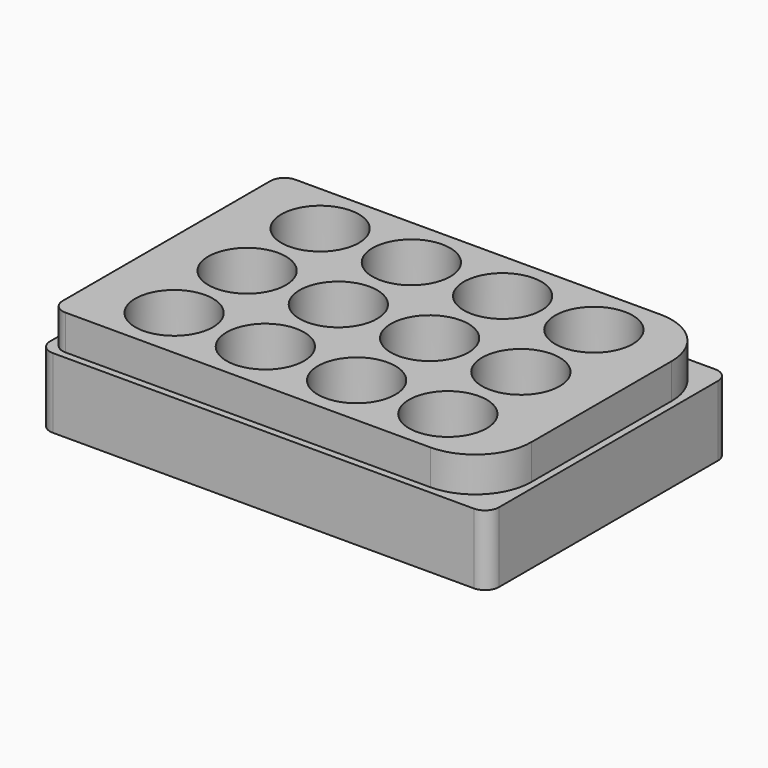
from build123d import *

# Parameters (mm, degrees)
F1_DEPTH = 20
F2_DEPTH = 20
F3_DEPTH = 18
F0_R     = 12.555
F4_DEPTH = 30
F5_DEPTH = 18
F6_DEPTH = 28
F0_R_2   = 11.055
F7_DEPTH = 30
F8_DEPTH = 2.5
F9_DEPTH = 1


with BuildPart() as f1:
    # F0 (on Top) → F1 (new body)
    with BuildSketch(Plane.XY):
        with BuildLine():
            ThreePointArc((64, 39), (62.8284271247, 41.8284271247), (60, 43))
            Line((60, 43), (-60, 43))
            ThreePointArc((-60, 43), (-62.8284271247, 41.8284271247), (-64, 39))
            Line((-64, 39), (-64, -39))
            ThreePointArc((-64, -39), (-62.8284271247, -41.8284271247), (-60, -43))
            Line((-60, -43), (60, -43))
            ThreePointArc((60, -43), (62.8284271247, -41.8284271247), (64, -39))
            Line((64, -39), (64, 39))
        make_face()
        with BuildLine():
            Line((-58, 41), (46, 41))
            Line((46, 41), (58, 41))
            ThreePointArc((58, 41), (60.8284271247, 39.8284271247), (62, 37))
            Line((62, 37), (62, 25))
            Line((62, 25), (62, -25))
            Line((62, -25), (62, -37))
            ThreePointArc((62, -37), (60.8284271247, -39.8284271247), (58, -41))
            Line((58, -41), (46, -41))
            Line((46, -41), (-58, -41))
            ThreePointArc((-58, -41), (-60.8284271247, -39.8284271247), (-62, -37))
            Line((-62, -37), (-62, 37))
            ThreePointArc((-62, 37), (-60.8284271247, 39.8284271247), (-58, 41))
        make_face(mode=Mode.SUBTRACT)
    extrude(amount=F1_DEPTH)

    # F0 (on Top) → F2 (join)
    with BuildSketch(Plane.XY):
        with BuildLine():
            Line((58, 41), (46, 41))
            ThreePointArc((46, 41), (57.313708499, 36.313708499), (62, 25))
            Line((62, 25), (62, 37))
            ThreePointArc((62, 37), (60.8284271247, 39.8284271247), (58, 41))
        make_face()
        with BuildLine():
            Line((62, -37), (62, -25))
            ThreePointArc((62, -25), (57.313708499, -36.313708499), (46, -41))
            Line((46, -41), (58, -41))
            ThreePointArc((58, -41), (60.8284271247, -39.8284271247), (62, -37))
        make_face()
    extrude(amount=F2_DEPTH)

    # F0 (on Top) → F3 (cut)
    with BuildSketch(Plane.XY):
        with BuildLine():
            Line((58, 41), (46, 41))
            ThreePointArc((46, 41), (57.313708499, 36.313708499), (62, 25))
            Line((62, 25), (62, 37))
            ThreePointArc((62, 37), (60.8284271247, 39.8284271247), (58, 41))
        make_face()
        with BuildLine():
            Line((62, -37), (62, -25))
            ThreePointArc((62, -25), (57.313708499, -36.313708499), (46, -41))
            Line((46, -41), (58, -41))
            ThreePointArc((58, -41), (60.8284271247, -39.8284271247), (62, -37))
        make_face()
    extrude(amount=F3_DEPTH, mode=Mode.SUBTRACT)

    # F0 (on Top) → F4 (join)
    with BuildSketch(Plane.XY):
        with BuildLine():
            ThreePointArc((62, 25), (57.313708499, 36.313708499), (46, 41))
            Line((46, 41), (-58, 41))
            ThreePointArc((-58, 41), (-60.8284271247, 39.8284271247), (-62, 37))
            Line((-62, 37), (-62, -37))
            ThreePointArc((-62, -37), (-60.8284271247, -39.8284271247), (-58, -41))
            Line((-58, -41), (46, -41))
            ThreePointArc((46, -41), (57.313708499, -36.313708499), (62, -25))
            Line((62, -25), (62, 25))
        make_face()
        with BuildLine():
            Line((44, -39), (-56, -39))
            ThreePointArc((-56, -39), (-58.8284271247, -37.8284271247), (-60, -35))
            Line((-60, -35), (-60, 35))
            ThreePointArc((-60, 35), (-58.8284271247, 37.8284271247), (-56, 39))
            Line((-56, 39), (44, 39))
            ThreePointArc((44, 39), (55.313708499, 34.313708499), (60, 23))
            Line((60, 23), (60, -23))
            ThreePointArc((60, -23), (55.313708499, -34.313708499), (44, -39))
        make_face(mode=Mode.SUBTRACT)
        with BuildLine():
            ThreePointArc((-60, -35), (-58.8284271247, -37.8284271247), (-56, -39))
            Line((-56, -39), (44, -39))
            ThreePointArc((44, -39), (55.313708499, -34.313708499), (60, -23))
            Line((60, -23), (60, 23))
            ThreePointArc((60, 23), (55.313708499, 34.313708499), (44, 39))
            Line((44, 39), (-56, 39))
            ThreePointArc((-56, 39), (-58.8284271247, 37.8284271247), (-60, 35))
            Line((-60, 35), (-60, -35))
        make_face()
        with BuildLine():
            Line((-25.56, -26.01), (-26.46, -26.01))
            ThreePointArc((-26.46, -26.01), (-47.8927256378, -34.8877256378), (-39.015, -13.455))
            Line((-39.015, -13.455), (-39.015, -12.555))
            ThreePointArc((-39.015, -12.555), (-51.57, 0), (-39.015, 12.555))
            Line((-39.015, 12.555), (-39.015, 13.455))
            ThreePointArc((-39.015, 13.455), (-47.8927256378, 34.8877256378), (-26.46, 26.01))
            Line((-26.46, 26.01), (-25.56, 26.01))
            ThreePointArc((-25.56, 26.01), (-13.005, 38.565), (-0.45, 26.01))
            Line((-0.45, 26.01), (0.45, 26.01))
            ThreePointArc((0.45, 26.01), (13.005, 38.565), (25.56, 26.01))
            Line((25.56, 26.01), (26.46, 26.01))
            ThreePointArc((26.46, 26.01), (39.015, 38.565), (51.57, 26.01))
            ThreePointArc((51.57, 26.01), (47.8927256378, 17.1322743622), (39.015, 13.455))
            Line((39.015, 13.455), (39.015, 12.555))
            ThreePointArc((39.015, 12.555), (47.8927256378, 8.8777256378), (51.57, 0))
            ThreePointArc((51.57, 0), (47.8927256378, -8.8777256378), (39.015, -12.555))
            Line((39.015, -12.555), (39.015, -13.455))
            ThreePointArc((39.015, -13.455), (47.8927256378, -17.1322743622), (51.57, -26.01))
            ThreePointArc((51.57, -26.01), (39.015, -38.565), (26.46, -26.01))
            Line((26.46, -26.01), (25.56, -26.01))
            ThreePointArc((25.56, -26.01), (13.005, -38.565), (0.45, -26.01))
            Line((0.45, -26.01), (-0.4536625078, -25.7067638609))
            ThreePointArc((-0.4536625078, -25.7067638609), (-0.4509156603, -25.8583708719), (-0.45, -26.01))
            ThreePointArc((-0.45, -26.01), (-13.005, -38.565), (-25.56, -26.01))
        make_face(mode=Mode.SUBTRACT)
        with BuildLine():
            ThreePointArc((-39.015, -13.455), (-30.1372743622, -17.1322743622), (-26.46, -26.01))
            Line((-26.46, -26.01), (-25.56, -26.01))
            ThreePointArc((-25.56, -26.01), (-13.1566291281, -13.4559156603), (-0.4536625078, -25.7067638609))
            Line((-0.4536625078, -25.7067638609), (0.45, -26.01))
            ThreePointArc((0.45, -26.01), (13.005, -13.455), (25.56, -26.01))
            Line((25.56, -26.01), (26.46, -26.01))
            ThreePointArc((26.46, -26.01), (30.1372743622, -17.1322743622), (39.015, -13.455))
            Line((39.015, -13.455), (39.015, -12.555))
            ThreePointArc((39.015, -12.555), (26.46, 0), (39.015, 12.555))
            Line((39.015, 12.555), (39.015, 13.455))
            ThreePointArc((39.015, 13.455), (30.1372743622, 17.1322743622), (26.46, 26.01))
            Line((26.46, 26.01), (25.56, 26.01))
            ThreePointArc((25.56, 26.01), (13.005, 13.455), (0.45, 26.01))
            Line((0.45, 26.01), (-0.45, 26.01))
            ThreePointArc((-0.45, 26.01), (-13.005, 13.455), (-25.56, 26.01))
            Line((-25.56, 26.01), (-26.46, 26.01))
            ThreePointArc((-26.46, 26.01), (-30.1372743622, 17.1322743622), (-39.015, 13.455))
            Line((-39.015, 13.455), (-39.015, 12.555))
            ThreePointArc((-39.015, 12.555), (-30.1372743622, 8.8777256378), (-26.46, 0))
            ThreePointArc((-26.46, 0), (-30.1372743622, -8.8777256378), (-39.015, -12.555))
            Line((-39.015, -12.555), (-39.015, -13.455))
        make_face()
        with Locations((-13.005, 0)):
            Circle(F0_R, mode=Mode.SUBTRACT)
        with Locations((13.005, 0)):
            Circle(F0_R, mode=Mode.SUBTRACT)
    extrude(amount=F4_DEPTH)

    # F0 (on Top) → F5 (cut)
    with BuildSketch(Plane.XY):
        with BuildLine():
            ThreePointArc((62, 25), (57.313708499, 36.313708499), (46, 41))
            Line((46, 41), (-58, 41))
            ThreePointArc((-58, 41), (-60.8284271247, 39.8284271247), (-62, 37))
            Line((-62, 37), (-62, -37))
            ThreePointArc((-62, -37), (-60.8284271247, -39.8284271247), (-58, -41))
            Line((-58, -41), (46, -41))
            ThreePointArc((46, -41), (57.313708499, -36.313708499), (62, -25))
            Line((62, -25), (62, 25))
        make_face()
        with BuildLine():
            Line((44, -39), (-56, -39))
            ThreePointArc((-56, -39), (-58.8284271247, -37.8284271247), (-60, -35))
            Line((-60, -35), (-60, 35))
            ThreePointArc((-60, 35), (-58.8284271247, 37.8284271247), (-56, 39))
            Line((-56, 39), (44, 39))
            ThreePointArc((44, 39), (55.313708499, 34.313708499), (60, 23))
            Line((60, 23), (60, -23))
            ThreePointArc((60, -23), (55.313708499, -34.313708499), (44, -39))
        make_face(mode=Mode.SUBTRACT)
    extrude(amount=F5_DEPTH, mode=Mode.SUBTRACT)

    # F0 (on Top) → F6 (cut)
    with BuildSketch(Plane.XY):
        with BuildLine():
            ThreePointArc((-60, -35), (-58.8284271247, -37.8284271247), (-56, -39))
            Line((-56, -39), (44, -39))
            ThreePointArc((44, -39), (55.313708499, -34.313708499), (60, -23))
            Line((60, -23), (60, 23))
            ThreePointArc((60, 23), (55.313708499, 34.313708499), (44, 39))
            Line((44, 39), (-56, 39))
            ThreePointArc((-56, 39), (-58.8284271247, 37.8284271247), (-60, 35))
            Line((-60, 35), (-60, -35))
        make_face()
        with BuildLine():
            Line((-25.56, -26.01), (-26.46, -26.01))
            ThreePointArc((-26.46, -26.01), (-47.8927256378, -34.8877256378), (-39.015, -13.455))
            Line((-39.015, -13.455), (-39.015, -12.555))
            ThreePointArc((-39.015, -12.555), (-51.57, 0), (-39.015, 12.555))
            Line((-39.015, 12.555), (-39.015, 13.455))
            ThreePointArc((-39.015, 13.455), (-47.8927256378, 34.8877256378), (-26.46, 26.01))
            Line((-26.46, 26.01), (-25.56, 26.01))
            ThreePointArc((-25.56, 26.01), (-13.005, 38.565), (-0.45, 26.01))
            Line((-0.45, 26.01), (0.45, 26.01))
            ThreePointArc((0.45, 26.01), (13.005, 38.565), (25.56, 26.01))
            Line((25.56, 26.01), (26.46, 26.01))
            ThreePointArc((26.46, 26.01), (39.015, 38.565), (51.57, 26.01))
            ThreePointArc((51.57, 26.01), (47.8927256378, 17.1322743622), (39.015, 13.455))
            Line((39.015, 13.455), (39.015, 12.555))
            ThreePointArc((39.015, 12.555), (47.8927256378, 8.8777256378), (51.57, 0))
            ThreePointArc((51.57, 0), (47.8927256378, -8.8777256378), (39.015, -12.555))
            Line((39.015, -12.555), (39.015, -13.455))
            ThreePointArc((39.015, -13.455), (47.8927256378, -17.1322743622), (51.57, -26.01))
            ThreePointArc((51.57, -26.01), (39.015, -38.565), (26.46, -26.01))
            Line((26.46, -26.01), (25.56, -26.01))
            ThreePointArc((25.56, -26.01), (13.005, -38.565), (0.45, -26.01))
            Line((0.45, -26.01), (-0.4536625078, -25.7067638609))
            ThreePointArc((-0.4536625078, -25.7067638609), (-0.4509156603, -25.8583708719), (-0.45, -26.01))
            ThreePointArc((-0.45, -26.01), (-13.005, -38.565), (-25.56, -26.01))
        make_face(mode=Mode.SUBTRACT)
        with BuildLine():
            ThreePointArc((-39.015, -13.455), (-30.1372743622, -17.1322743622), (-26.46, -26.01))
            Line((-26.46, -26.01), (-25.56, -26.01))
            ThreePointArc((-25.56, -26.01), (-13.1566291281, -13.4559156603), (-0.4536625078, -25.7067638609))
            Line((-0.4536625078, -25.7067638609), (0.45, -26.01))
            ThreePointArc((0.45, -26.01), (13.005, -13.455), (25.56, -26.01))
            Line((25.56, -26.01), (26.46, -26.01))
            ThreePointArc((26.46, -26.01), (30.1372743622, -17.1322743622), (39.015, -13.455))
            Line((39.015, -13.455), (39.015, -12.555))
            ThreePointArc((39.015, -12.555), (26.46, 0), (39.015, 12.555))
            Line((39.015, 12.555), (39.015, 13.455))
            ThreePointArc((39.015, 13.455), (30.1372743622, 17.1322743622), (26.46, 26.01))
            Line((26.46, 26.01), (25.56, 26.01))
            ThreePointArc((25.56, 26.01), (13.005, 13.455), (0.45, 26.01))
            Line((0.45, 26.01), (-0.45, 26.01))
            ThreePointArc((-0.45, 26.01), (-13.005, 13.455), (-25.56, 26.01))
            Line((-25.56, 26.01), (-26.46, 26.01))
            ThreePointArc((-26.46, 26.01), (-30.1372743622, 17.1322743622), (-39.015, 13.455))
            Line((-39.015, 13.455), (-39.015, 12.555))
            ThreePointArc((-39.015, 12.555), (-30.1372743622, 8.8777256378), (-26.46, 0))
            ThreePointArc((-26.46, 0), (-30.1372743622, -8.8777256378), (-39.015, -12.555))
            Line((-39.015, -12.555), (-39.015, -13.455))
        make_face()
        with Locations((-13.005, 0)):
            Circle(F0_R, mode=Mode.SUBTRACT)
        with Locations((13.005, 0)):
            Circle(F0_R, mode=Mode.SUBTRACT)
    extrude(amount=F6_DEPTH, mode=Mode.SUBTRACT)

    # F0 (on Top) → F7 (join)
    with BuildSketch(Plane.XY):
        with BuildLine():
            ThreePointArc((-39.015, -13.455), (-47.8927256378, -34.8877256378), (-26.46, -26.01))
            ThreePointArc((-26.46, -26.01), (-30.1372743622, -17.1322743622), (-39.015, -13.455))
        make_face()
        with Locations((-39.015, -26.01)):
            Circle(F0_R_2, mode=Mode.SUBTRACT)
        with BuildLine():
            ThreePointArc((-0.4536625078, -25.7067638609), (-13.1566291281, -13.4559156603), (-25.56, -26.01))
            ThreePointArc((-25.56, -26.01), (-13.005, -38.565), (-0.45, -26.01))
            ThreePointArc((-0.45, -26.01), (-0.4509156603, -25.8583708719), (-0.4536625078, -25.7067638609))
        make_face()
        with Locations((-13.005, -26.01)):
            Circle(F0_R_2, mode=Mode.SUBTRACT)
        with BuildLine():
            ThreePointArc((-39.015, 12.555), (-51.57, 0), (-39.015, -12.555))
            ThreePointArc((-39.015, -12.555), (-30.1372743622, -8.8777256378), (-26.46, 0))
            ThreePointArc((-26.46, 0), (-30.1372743622, 8.8777256378), (-39.015, 12.555))
        make_face()
        with Locations((-39.015, 0)):
            Circle(F0_R_2, mode=Mode.SUBTRACT)
        with Locations((-13.005, 0)):
            Circle(F0_R)
        with Locations((-13.005, 0)):
            Circle(F0_R_2, mode=Mode.SUBTRACT)
        with Locations((13.005, 0)):
            Circle(F0_R)
        with Locations((13.005, 0)):
            Circle(F0_R_2, mode=Mode.SUBTRACT)
        with BuildLine():
            ThreePointArc((25.56, -26.01), (13.005, -13.455), (0.45, -26.01))
            ThreePointArc((0.45, -26.01), (13.005, -38.565), (25.56, -26.01))
        make_face()
        with Locations((13.005, -26.01)):
            Circle(F0_R_2, mode=Mode.SUBTRACT)
        with BuildLine():
            ThreePointArc((39.015, -13.455), (30.1372743622, -17.1322743622), (26.46, -26.01))
            ThreePointArc((26.46, -26.01), (39.015, -38.565), (51.57, -26.01))
            ThreePointArc((51.57, -26.01), (47.8927256378, -17.1322743622), (39.015, -13.455))
        make_face()
        with Locations((39.015, -26.01)):
            Circle(F0_R_2, mode=Mode.SUBTRACT)
        with BuildLine():
            ThreePointArc((39.015, 12.555), (26.46, 0), (39.015, -12.555))
            ThreePointArc((39.015, -12.555), (47.8927256378, -8.8777256378), (51.57, 0))
            ThreePointArc((51.57, 0), (47.8927256378, 8.8777256378), (39.015, 12.555))
        make_face()
        with Locations((39.015, 0)):
            Circle(F0_R_2, mode=Mode.SUBTRACT)
        with BuildLine():
            ThreePointArc((26.46, 26.01), (30.1372743622, 17.1322743622), (39.015, 13.455))
            ThreePointArc((39.015, 13.455), (47.8927256378, 17.1322743622), (51.57, 26.01))
            ThreePointArc((51.57, 26.01), (39.015, 38.565), (26.46, 26.01))
        make_face()
        with Locations((39.015, 26.01)):
            Circle(F0_R_2, mode=Mode.SUBTRACT)
        with BuildLine():
            ThreePointArc((25.56, 26.01), (13.005, 38.565), (0.45, 26.01))
            ThreePointArc((0.45, 26.01), (13.005, 13.455), (25.56, 26.01))
        make_face()
        with Locations((13.005, 26.01)):
            Circle(F0_R_2, mode=Mode.SUBTRACT)
        with BuildLine():
            ThreePointArc((-0.45, 26.01), (-13.005, 38.565), (-25.56, 26.01))
            ThreePointArc((-25.56, 26.01), (-13.005, 13.455), (-0.45, 26.01))
        make_face()
        with Locations((-13.005, 26.01)):
            Circle(F0_R_2, mode=Mode.SUBTRACT)
        with BuildLine():
            ThreePointArc((-26.46, 26.01), (-47.8927256378, 34.8877256378), (-39.015, 13.455))
            ThreePointArc((-39.015, 13.455), (-30.1372743622, 17.1322743622), (-26.46, 26.01))
        make_face()
        with Locations((-39.015, 26.01)):
            Circle(F0_R_2, mode=Mode.SUBTRACT)
    extrude(amount=F7_DEPTH)

    # F0 (on Top) → F8 (join)
    with BuildSketch(Plane.XY):
        with Locations((-39.015, -26.01)):
            Circle(F0_R_2)
        with BuildLine():
            ThreePointArc((-39.015, -13.455), (-30.1372743622, -17.1322743622), (-26.46, -26.01))
            Line((-26.46, -26.01), (-25.56, -26.01))
            ThreePointArc((-25.56, -26.01), (-13.1566291281, -13.4559156603), (-0.4536625078, -25.7067638609))
            Line((-0.4536625078, -25.7067638609), (0.45, -26.01))
            ThreePointArc((0.45, -26.01), (13.005, -13.455), (25.56, -26.01))
            Line((25.56, -26.01), (26.46, -26.01))
            ThreePointArc((26.46, -26.01), (30.1372743622, -17.1322743622), (39.015, -13.455))
            Line((39.015, -13.455), (39.015, -12.555))
            ThreePointArc((39.015, -12.555), (26.46, 0), (39.015, 12.555))
            Line((39.015, 12.555), (39.015, 13.455))
            ThreePointArc((39.015, 13.455), (30.1372743622, 17.1322743622), (26.46, 26.01))
            Line((26.46, 26.01), (25.56, 26.01))
            ThreePointArc((25.56, 26.01), (13.005, 13.455), (0.45, 26.01))
            Line((0.45, 26.01), (-0.45, 26.01))
            ThreePointArc((-0.45, 26.01), (-13.005, 13.455), (-25.56, 26.01))
            Line((-25.56, 26.01), (-26.46, 26.01))
            ThreePointArc((-26.46, 26.01), (-30.1372743622, 17.1322743622), (-39.015, 13.455))
            Line((-39.015, 13.455), (-39.015, 12.555))
            ThreePointArc((-39.015, 12.555), (-30.1372743622, 8.8777256378), (-26.46, 0))
            ThreePointArc((-26.46, 0), (-30.1372743622, -8.8777256378), (-39.015, -12.555))
            Line((-39.015, -12.555), (-39.015, -13.455))
        make_face()
        with Locations((-13.005, 0)):
            Circle(F0_R, mode=Mode.SUBTRACT)
        with Locations((13.005, 0)):
            Circle(F0_R, mode=Mode.SUBTRACT)
        with Locations((-13.005, -26.01)):
            Circle(F0_R_2)
        with Locations((13.005, -26.01)):
            Circle(F0_R_2)
        with Locations((39.015, -26.01)):
            Circle(F0_R_2)
        with Locations((39.015, 0)):
            Circle(F0_R_2)
        with Locations((13.005, 0)):
            Circle(F0_R_2)
        with Locations((-13.005, 0)):
            Circle(F0_R_2)
        with Locations((-39.015, 0)):
            Circle(F0_R_2)
        with Locations((-39.015, 26.01)):
            Circle(F0_R_2)
        with Locations((-13.005, 26.01)):
            Circle(F0_R_2)
        with Locations((13.005, 26.01)):
            Circle(F0_R_2)
        with Locations((39.015, 26.01)):
            Circle(F0_R_2)
    extrude(amount=F8_DEPTH)

    # F0 (on Top) → F9 (cut)
    with BuildSketch(Plane.XY):
        with BuildLine():
            ThreePointArc((-39.015, -13.455), (-30.1372743622, -17.1322743622), (-26.46, -26.01))
            Line((-26.46, -26.01), (-25.56, -26.01))
            ThreePointArc((-25.56, -26.01), (-13.1566291281, -13.4559156603), (-0.4536625078, -25.7067638609))
            Line((-0.4536625078, -25.7067638609), (0.45, -26.01))
            ThreePointArc((0.45, -26.01), (13.005, -13.455), (25.56, -26.01))
            Line((25.56, -26.01), (26.46, -26.01))
            ThreePointArc((26.46, -26.01), (30.1372743622, -17.1322743622), (39.015, -13.455))
            Line((39.015, -13.455), (39.015, -12.555))
            ThreePointArc((39.015, -12.555), (26.46, 0), (39.015, 12.555))
            Line((39.015, 12.555), (39.015, 13.455))
            ThreePointArc((39.015, 13.455), (30.1372743622, 17.1322743622), (26.46, 26.01))
            Line((26.46, 26.01), (25.56, 26.01))
            ThreePointArc((25.56, 26.01), (13.005, 13.455), (0.45, 26.01))
            Line((0.45, 26.01), (-0.45, 26.01))
            ThreePointArc((-0.45, 26.01), (-13.005, 13.455), (-25.56, 26.01))
            Line((-25.56, 26.01), (-26.46, 26.01))
            ThreePointArc((-26.46, 26.01), (-30.1372743622, 17.1322743622), (-39.015, 13.455))
            Line((-39.015, 13.455), (-39.015, 12.555))
            ThreePointArc((-39.015, 12.555), (-30.1372743622, 8.8777256378), (-26.46, 0))
            ThreePointArc((-26.46, 0), (-30.1372743622, -8.8777256378), (-39.015, -12.555))
            Line((-39.015, -12.555), (-39.015, -13.455))
        make_face()
        with Locations((-13.005, 0)):
            Circle(F0_R, mode=Mode.SUBTRACT)
        with Locations((13.005, 0)):
            Circle(F0_R, mode=Mode.SUBTRACT)
        with BuildLine():
            ThreePointArc((-39.015, -13.455), (-47.8927256378, -34.8877256378), (-26.46, -26.01))
            ThreePointArc((-26.46, -26.01), (-30.1372743622, -17.1322743622), (-39.015, -13.455))
        make_face()
        with Locations((-39.015, -26.01)):
            Circle(F0_R_2, mode=Mode.SUBTRACT)
        with BuildLine():
            ThreePointArc((-0.4536625078, -25.7067638609), (-13.1566291281, -13.4559156603), (-25.56, -26.01))
            ThreePointArc((-25.56, -26.01), (-13.005, -38.565), (-0.45, -26.01))
            ThreePointArc((-0.45, -26.01), (-0.4509156603, -25.8583708719), (-0.4536625078, -25.7067638609))
        make_face()
        with Locations((-13.005, -26.01)):
            Circle(F0_R_2, mode=Mode.SUBTRACT)
        with BuildLine():
            ThreePointArc((25.56, -26.01), (13.005, -13.455), (0.45, -26.01))
            ThreePointArc((0.45, -26.01), (13.005, -38.565), (25.56, -26.01))
        make_face()
        with Locations((13.005, -26.01)):
            Circle(F0_R_2, mode=Mode.SUBTRACT)
        with BuildLine():
            ThreePointArc((39.015, -13.455), (30.1372743622, -17.1322743622), (26.46, -26.01))
            ThreePointArc((26.46, -26.01), (39.015, -38.565), (51.57, -26.01))
            ThreePointArc((51.57, -26.01), (47.8927256378, -17.1322743622), (39.015, -13.455))
        make_face()
        with Locations((39.015, -26.01)):
            Circle(F0_R_2, mode=Mode.SUBTRACT)
        with BuildLine():
            ThreePointArc((39.015, 12.555), (26.46, 0), (39.015, -12.555))
            ThreePointArc((39.015, -12.555), (47.8927256378, -8.8777256378), (51.57, 0))
            ThreePointArc((51.57, 0), (47.8927256378, 8.8777256378), (39.015, 12.555))
        make_face()
        with Locations((39.015, 0)):
            Circle(F0_R_2, mode=Mode.SUBTRACT)
        with BuildLine():
            ThreePointArc((26.46, 26.01), (30.1372743622, 17.1322743622), (39.015, 13.455))
            ThreePointArc((39.015, 13.455), (47.8927256378, 17.1322743622), (51.57, 26.01))
            ThreePointArc((51.57, 26.01), (39.015, 38.565), (26.46, 26.01))
        make_face()
        with Locations((39.015, 26.01)):
            Circle(F0_R_2, mode=Mode.SUBTRACT)
        with BuildLine():
            ThreePointArc((25.56, 26.01), (13.005, 38.565), (0.45, 26.01))
            ThreePointArc((0.45, 26.01), (13.005, 13.455), (25.56, 26.01))
        make_face()
        with Locations((13.005, 26.01)):
            Circle(F0_R_2, mode=Mode.SUBTRACT)
        with BuildLine():
            ThreePointArc((-0.45, 26.01), (-13.005, 38.565), (-25.56, 26.01))
            ThreePointArc((-25.56, 26.01), (-13.005, 13.455), (-0.45, 26.01))
        make_face()
        with Locations((-13.005, 26.01)):
            Circle(F0_R_2, mode=Mode.SUBTRACT)
        with BuildLine():
            ThreePointArc((-26.46, 26.01), (-47.8927256378, 34.8877256378), (-39.015, 13.455))
            ThreePointArc((-39.015, 13.455), (-30.1372743622, 17.1322743622), (-26.46, 26.01))
        make_face()
        with Locations((-39.015, 26.01)):
            Circle(F0_R_2, mode=Mode.SUBTRACT)
        with BuildLine():
            ThreePointArc((-39.015, 12.555), (-51.57, 0), (-39.015, -12.555))
            ThreePointArc((-39.015, -12.555), (-30.1372743622, -8.8777256378), (-26.46, 0))
            ThreePointArc((-26.46, 0), (-30.1372743622, 8.8777256378), (-39.015, 12.555))
        make_face()
        with Locations((-39.015, 0)):
            Circle(F0_R_2, mode=Mode.SUBTRACT)
        with Locations((13.005, 0)):
            Circle(F0_R)
        with Locations((13.005, 0)):
            Circle(F0_R_2, mode=Mode.SUBTRACT)
        with Locations((-13.005, 0)):
            Circle(F0_R)
        with Locations((-13.005, 0)):
            Circle(F0_R_2, mode=Mode.SUBTRACT)
        with Locations((-39.015, -26.01)):
            Circle(F0_R_2)
        with Locations((-13.005, 0)):
            Circle(F0_R_2)
        with Locations((13.005, 0)):
            Circle(F0_R_2)
        with Locations((-13.005, -26.01)):
            Circle(F0_R_2)
        with Locations((13.005, -26.01)):
            Circle(F0_R_2)
        with Locations((39.015, -26.01)):
            Circle(F0_R_2)
        with Locations((39.015, 0)):
            Circle(F0_R_2)
        with Locations((-39.015, 0)):
            Circle(F0_R_2)
        with Locations((-39.015, 26.01)):
            Circle(F0_R_2)
        with Locations((-13.005, 26.01)):
            Circle(F0_R_2)
        with Locations((13.005, 26.01)):
            Circle(F0_R_2)
        with Locations((39.015, 26.01)):
            Circle(F0_R_2)
    extrude(amount=F9_DEPTH, mode=Mode.SUBTRACT)


solid = f1.part
